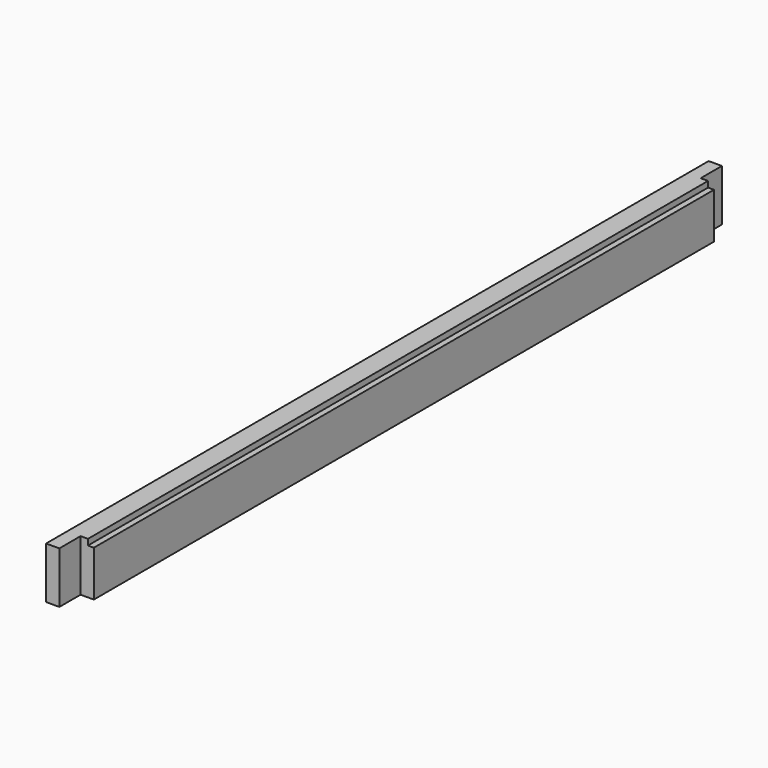
from build123d import *

# Parameters (mm, degrees)
F0_W     = 526
F0_H     = 31
F1_DEPTH = 18
F0_W_2   = 18
F0_H_2   = 4
F2_DEPTH = 9
F3_DEPTH = 14


with BuildPart() as f1:
    # F0 (on Right) → F1 (new body)
    with BuildSketch(Plane.YZ):
        with Locations((281, 15.5)):
            Rectangle(F0_W, F0_H)
    extrude(amount=F1_DEPTH)

    # F0 (on Right) → F2 (join)
    with BuildSketch(Plane.YZ):
        with Locations((9, 15.5)):
            Rectangle(F0_W_2, F0_H)
        with Locations((553, 15.5)):
            Rectangle(F0_W_2, F0_H)
        with Locations((9, 33)):
            Rectangle(F0_W_2, F0_H_2)
        with Locations((553, 33)):
            Rectangle(F0_W_2, F0_H_2)
    extrude(amount=F2_DEPTH)

    # F0 (on Right) → F3 (join)
    with BuildSketch(Plane.YZ):
        with Locations((281, 33)):
            Rectangle(F0_W, F0_H_2)
    extrude(amount=F3_DEPTH)


solid = f1.part
